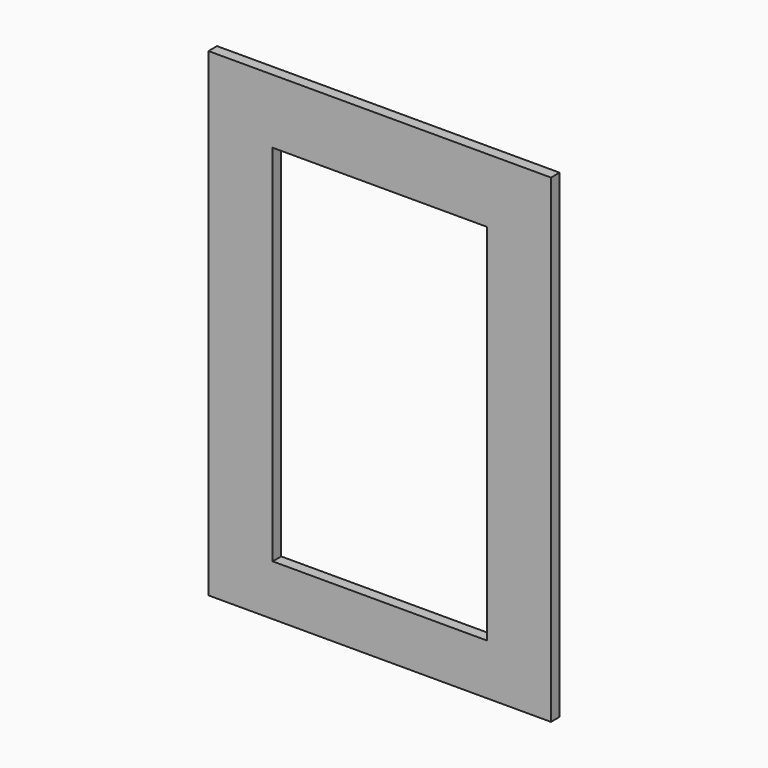
from build123d import *

# Parameters (mm, degrees)
F0_W     = 127
F0_H     = 12.7
F0_H_2   = 4.7625
F1_DEPTH = 6.35


with BuildPart() as f1:
    # F0 (on Front) → F1 (new body)
    with BuildSketch(Plane.XZ):
        Polygon((76.2, -129.44348), (101.6, -129.44348), (101.6, 129.44348), (-101.6, 129.44348), (-101.6, -129.44348), (-76.2, -129.44348), (-76.2, 104.04348), (-63.5, 104.04348), (63.5, 104.04348), (76.2, 104.04348), align=None)
        Polygon((101.6, -154.84348), (101.6, -129.44348), (76.2, -129.44348), (63.5, -129.44348), (-63.5, -129.44348), (-76.2, -129.44348), (-101.6, -129.44348), (-101.6, -154.84348), align=None)
        with Locations((0, 97.69348)):
            Rectangle(F0_W, F0_H)
        Polygon((-76.2, -129.44348), (-63.5, -129.44348), (-63.5, -124.68098), (-63.5, 91.34348), (-63.5, 104.04348), (-76.2, 104.04348), align=None)
        Polygon((63.5, -129.44348), (76.2, -129.44348), (76.2, 104.04348), (63.5, 104.04348), (63.5, 91.34348), (63.5, -124.68098), align=None)
        with Locations((0, -127.06223)):
            Rectangle(F0_W, F0_H_2)
    extrude(amount=F1_DEPTH)


solid = f1.part
